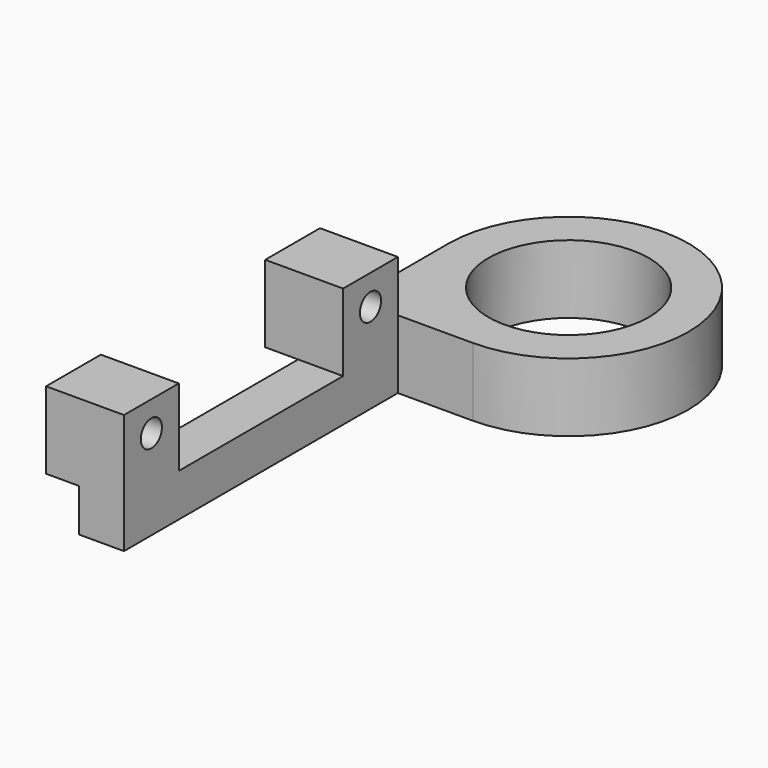
from build123d import *

# Parameters (mm, degrees)
F0_R     = 9.375
F1_DEPTH = 8
F2_W     = 5.25
F2_H     = 40
F3_DEPTH = 5
F5_DEPTH = 9
F7_D     = 3.1


with BuildPart() as f1:
    # F0 (on Top) → F1 (new body)
    with BuildSketch(Plane.XY):
        with BuildLine():
            Line((-14, 0), (0, 0))
            ThreePointArc((0, 0), (9.899495, 23.899495), (-14, 14))
            Line((-14, 14), (-14, 0))
        make_face()
        with Locations((0, 14)):
            Circle(F0_R, mode=Mode.SUBTRACT)
    extrude(amount=F1_DEPTH)

    # F2 (on Top) → F3 (join)
    with BuildSketch(Plane.XY):
        with Locations((-11.375, -20)):
            Rectangle(F2_W, F2_H)
    extrude(amount=F3_DEPTH)

    # F4 (on face) → F5 (join)
    with BuildSketch(Plane.XY.offset(5)):
        Polygon((-8.75, -40), (-8.75, -32), (-17.85, -32), (-17.85, -40), (-14, -40), align=None)
        Polygon((-8.75, 0), (-14, 0), (-17.85, 0), (-17.85, -8), (-8.75, -8), align=None)
    extrude(amount=F5_DEPTH)

    # F7 (through all)
    with Locations(Plane(origin=(-17.85, 0, 0), x_dir=(0, -1, 0), z_dir=(-1, 0, 0))):
        with Locations((4, 10.5), (36, 10.5)):
            Hole(F7_D / 2)


solid = f1.part
